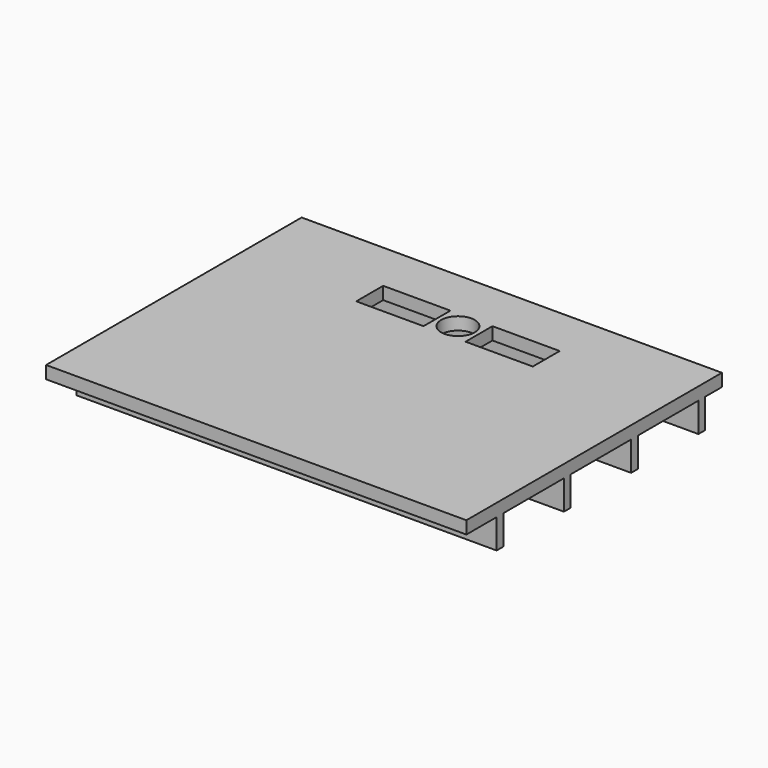
from build123d import *

# Parameters (mm, degrees)
F0_W          = 7620
F0_H          = 5791.2
F1_DEPTH      = 228.6
F2_W          = 152.4
F2_H          = 533.4
F3_DEPTH      = 3810
F3_DEPTH_BACK = 3810


with BuildPart() as f1:
    # F0 (on Top) → F1 (new body)
    with BuildSketch(Plane.XY):
        with Locations((0, -1676.4)):
            Rectangle(F0_W, F0_H)
        Polygon((-381, 304.8), (-381, 0), (-381, -304.8), (-1600.2, -304.8), (-1600.2, 304.8), align=None, mode=Mode.SUBTRACT)
        with BuildLine():
            ThreePointArc((-304.8, 0), (0, 304.8), (304.8, 0))
            ThreePointArc((304.8, 0), (0, -304.8), (-304.8, 0))
        make_face(mode=Mode.SUBTRACT)
        Polygon((381, -304.8), (381, 0), (381, 304.8), (1600.2, 304.8), (1600.2, -304.8), align=None, mode=Mode.SUBTRACT)
    extrude(amount=F1_DEPTH)

    # F2 (on Right) → F3 (join, two sides)
    with BuildSketch(Plane.YZ) as f3_sk:
        with Locations((-762, -266.7)):
            Rectangle(F2_W, F2_H)
        with Locations((762, -266.7)):
            Rectangle(F2_W, F2_H)
        with Locations((-3810, -266.7)):
            Rectangle(F2_W, F2_H)
        with Locations((-2286, -266.7)):
            Rectangle(F2_W, F2_H)
    extrude(amount=F3_DEPTH)
    extrude(f3_sk.sketch, amount=-F3_DEPTH_BACK)


solid = f1.part
